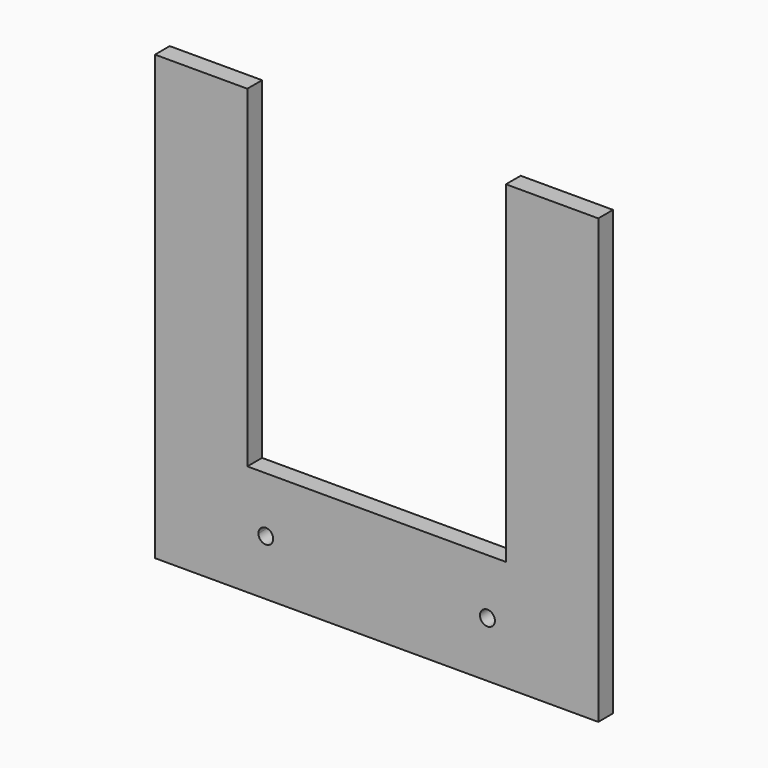
from build123d import *

# Parameters (mm, degrees)
F1_DEPTH = 5


with BuildPart() as f1:
    # F0 (on Front) → F1 (new body)
    with BuildSketch(Plane.XZ):
        Polygon((-60.1411065459, 94.3177779019), (-60.1411065459, -25.6822220981), (59.8588934541, -25.6822220981), (59.8588934541, -10.6822220981), (59.8588934541, 4.3177779019), (59.8588934541, 94.3177779019), (34.8588934541, 94.3177779019), (34.8588934541, 4.3177779019), (-35.1411065459, 4.3177779019), (-35.1411065459, 94.3177779019), align=None)
        with BuildLine():
            ThreePointArc((-32.1499717459, -10.6822220981), (-30.1411065459, -8.6733568981), (-28.132241346, -10.6822220981))
            ThreePointArc((-28.132241346, -10.6822220981), (-30.1411065459, -12.6910872981), (-32.1499717459, -10.6822220981))
        make_face(mode=Mode.SUBTRACT)
        with BuildLine():
            ThreePointArc((27.8374452822, -10.6822220981), (29.8588934541, -8.6607739263), (31.8803416259, -10.6822220981))
            ThreePointArc((31.8803416259, -10.6822220981), (29.8588934541, -12.70367027), (27.8374452822, -10.6822220981))
        make_face(mode=Mode.SUBTRACT)
    extrude(amount=F1_DEPTH)


solid = f1.part
